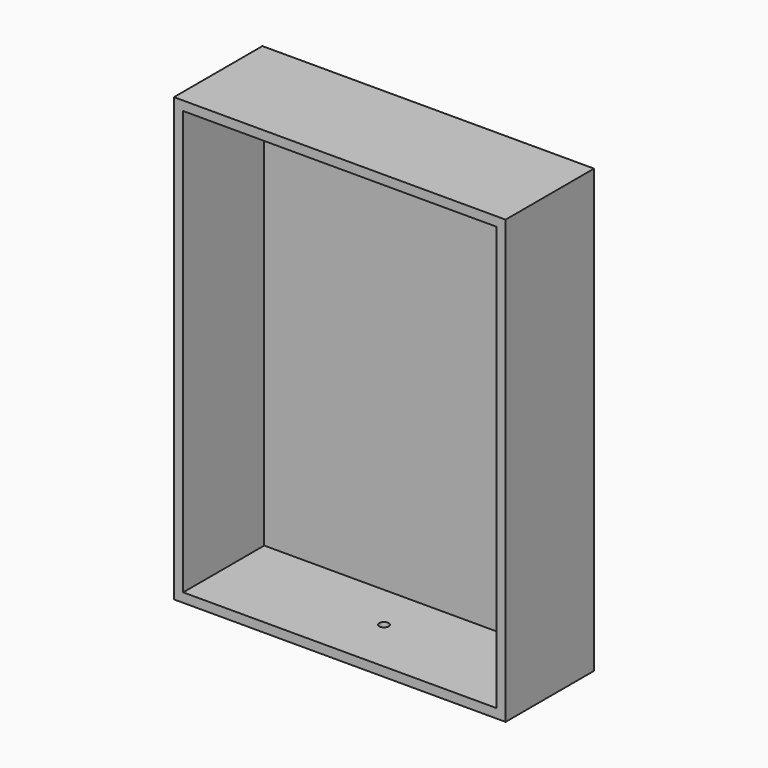
from build123d import *

# Parameters (mm, degrees)
F0_W     = 90
F0_H     = 120
F1_DEPTH = 30
F2_T     = -2.5
F3_R     = 1.25
F4_DEPTH = 25


with BuildPart() as f1:
    # F0 (on Front) → F1 (new body)
    with BuildSketch(Plane.XZ):
        with Locations((-45, 60)):
            Rectangle(F0_W, F0_H)
    extrude(amount=F1_DEPTH)

    # F2
    f2_openings = [f1.faces().sort_by_distance(p)[0] for p in [
        (-45, -30, 60),
    ]]
    offset(amount=F2_T, openings=f2_openings)

    # F3 (on face) → F4 (cut)
    with BuildSketch(Plane(origin=(0, 0, 0), x_dir=(1, 0, 0), z_dir=(0, 0, -1))):
        with Locations((-45, 15)):
            Circle(F3_R)
    extrude(amount=-F4_DEPTH, mode=Mode.SUBTRACT)


solid = f1.part
